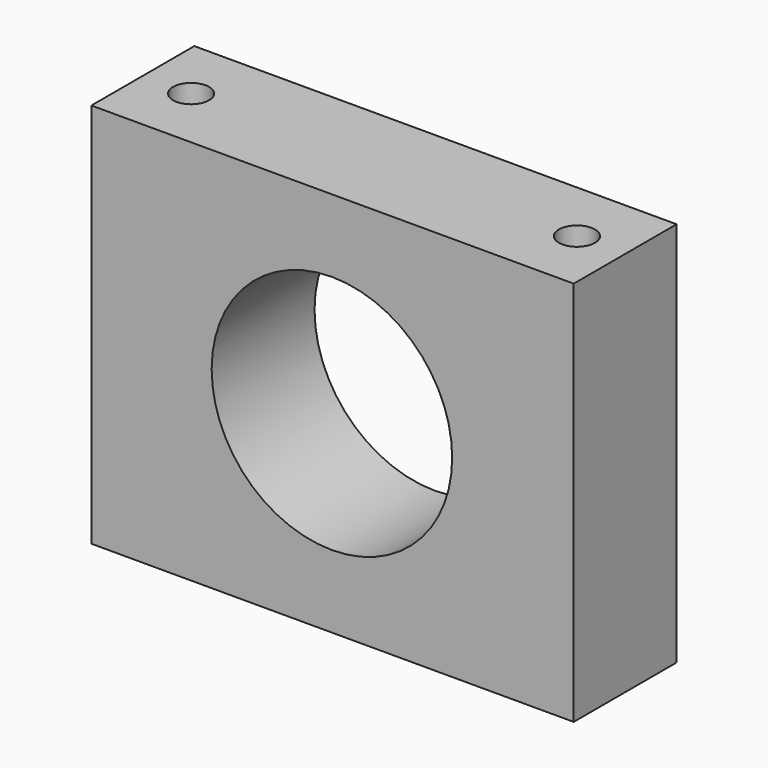
from build123d import *

# Parameters (mm, degrees)
F0_W     = 95.25
F0_H     = 76.2
F0_R     = 23.749
F1_DEPTH = 25.4
F2_R     = 3.5687
F3_DEPTH = 76.201


with BuildPart() as f1:
    # F0 (on Front) → F1 (new body)
    with BuildSketch(Plane.XZ):
        with Locations((-0.129677, 3.843902)):
            Rectangle(F0_W, F0_H)
        with Locations((-0.256677, 3.843902)):
            Circle(F0_R, mode=Mode.SUBTRACT)
    extrude(amount=F1_DEPTH)

    # F2 (on face) → F3 (cut, through all)
    with BuildSketch(Plane.XY.offset(41.943902)):
        with Locations((-38.229677, -12.7)):
            Circle(F2_R)
        with Locations((37.970323, -12.7)):
            Circle(F2_R)
    extrude(amount=-F3_DEPTH, mode=Mode.SUBTRACT)


solid = f1.part
